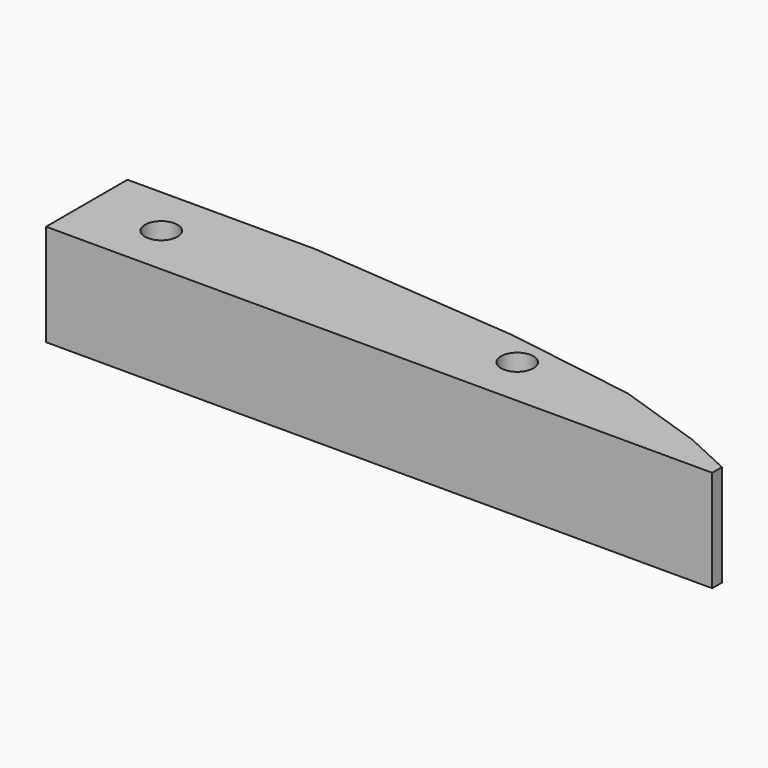
from build123d import *

# Parameters (mm, degrees)
SKETCH_R      = 1.6
EXTRUDE_DEPTH = 10


with BuildPart() as part:
    # Sketch → Extrude (new body)
    with BuildSketch(Plane.XY):
        Polygon((34.771611, 28.743792), (34.771611, 18.743792), (100.265511, 18.743792), (100.265511, 19.937214), (95.689453, 22.061815), (86.945915, 25.003567), (73.871452, 27.04645), (53.199657, 28.743792), align=None)
        with Locations((42.098938, 23.743792)):
            Circle(SKETCH_R, mode=Mode.SUBTRACT)
        with Locations((77.098938, 23.743792)):
            Circle(SKETCH_R, mode=Mode.SUBTRACT)
    extrude(amount=EXTRUDE_DEPTH)


solid = part.part
